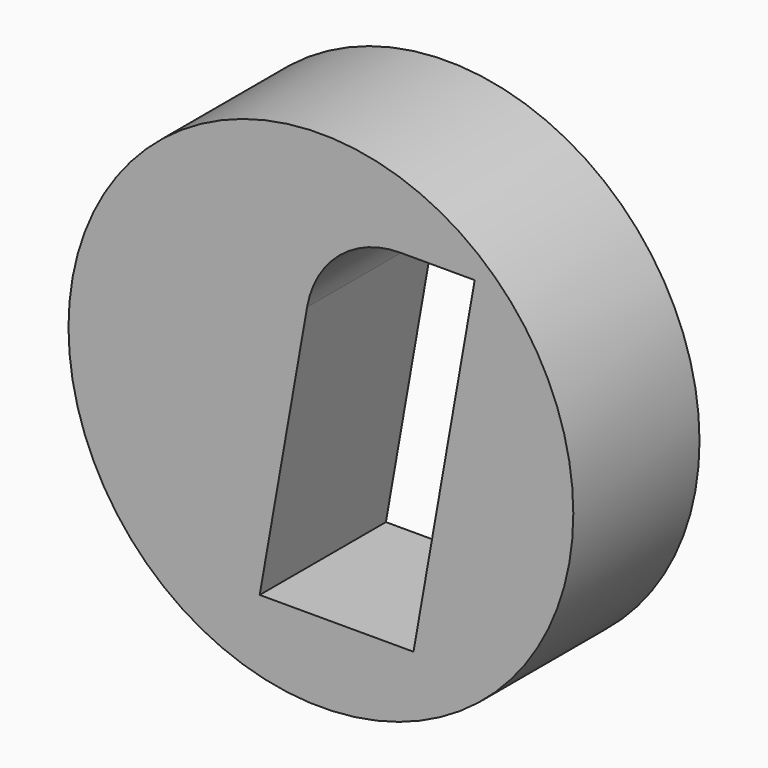
from build123d import *

# Parameters (mm, degrees)
F0_R     = 40
F1_DEPTH = 25


with BuildPart() as f1:
    # F0 (on Front) → F1 (new body)
    with BuildSketch(Plane.XZ):
        Circle(F0_R)
        with BuildLine():
            Line((24.370239, 27.5), (14.672255, -27.5))
            Line((14.672255, -27.5), (-9.697984, -27.5))
            Line((-9.697984, -27.5), (-2.185622, 15.104723))
            ThreePointArc((-2.185622, 15.104723), (2.94468, 23.990667), (12.586494, 27.5))
            Line((12.586494, 27.5), (24.370239, 27.5))
        make_face(mode=Mode.SUBTRACT)
    extrude(amount=F1_DEPTH)


solid = f1.part
